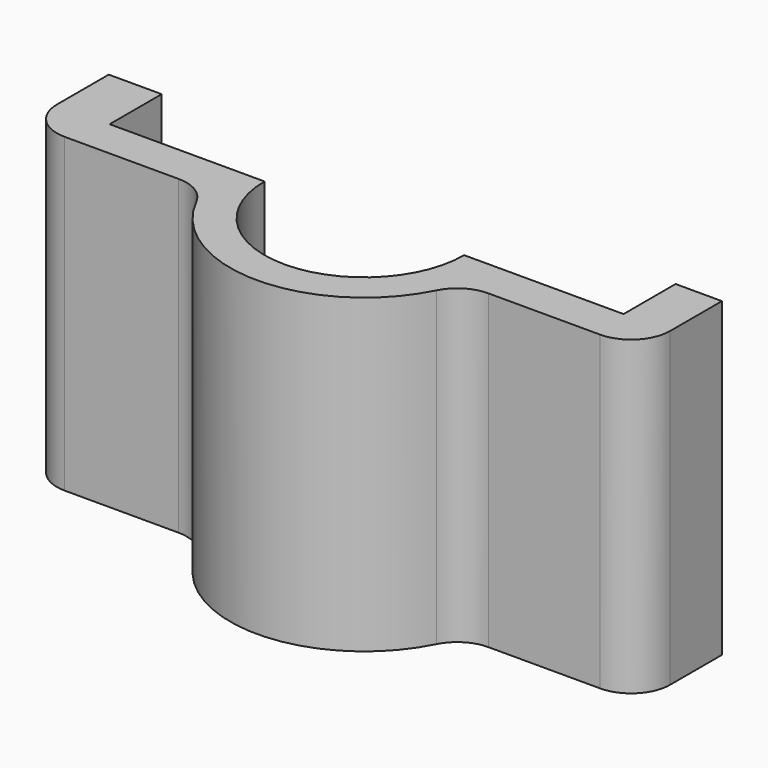
from build123d import *

# Parameters (mm, degrees)
F1_DEPTH = 40
F2_R     = 5


with BuildPart() as f1:
    # F0 (on Top) → F1 (new body)
    with BuildSketch(Plane.XY):
        with BuildLine():
            ThreePointArc((12.821055, 0), (0, -12.821055), (-12.821055, 0))
            Line((-12.821055, 0), (-32.718077, 0))
            Line((-32.718077, 0), (-32.718077, 8.356566))
            Line((-32.718077, 8.356566), (-39.516639, 8.356566))
            Line((-39.516639, 8.356566), (-39.516639, -4.957285))
            Line((-39.516639, -4.957285), (-16.508423, -4.957285))
            ThreePointArc((-16.508423, -4.957285), (0, -17.236667), (16.508423, -4.957285))
            Line((16.508423, -4.957285), (39.233368, -4.957285))
            Line((39.233368, -4.957285), (39.233368, 8.356566))
            Line((39.233368, 8.356566), (33.284627, 8.356566))
            Line((33.284627, 8.356566), (33.284627, 0))
            Line((33.284627, 0), (12.821055, 0))
        make_face()
    extrude(amount=F1_DEPTH)

    # F2
    f2_edges = [f1.edges().sort_by_distance(p)[0] for p in [
        (16.508423, -4.957285, 20),
        (39.233368, -4.957285, 20),
        (-39.516639, -4.957285, 20),
        (-16.508423, -4.957285, 20),
    ]]
    fillet(f2_edges, radius=F2_R)


solid = f1.part
